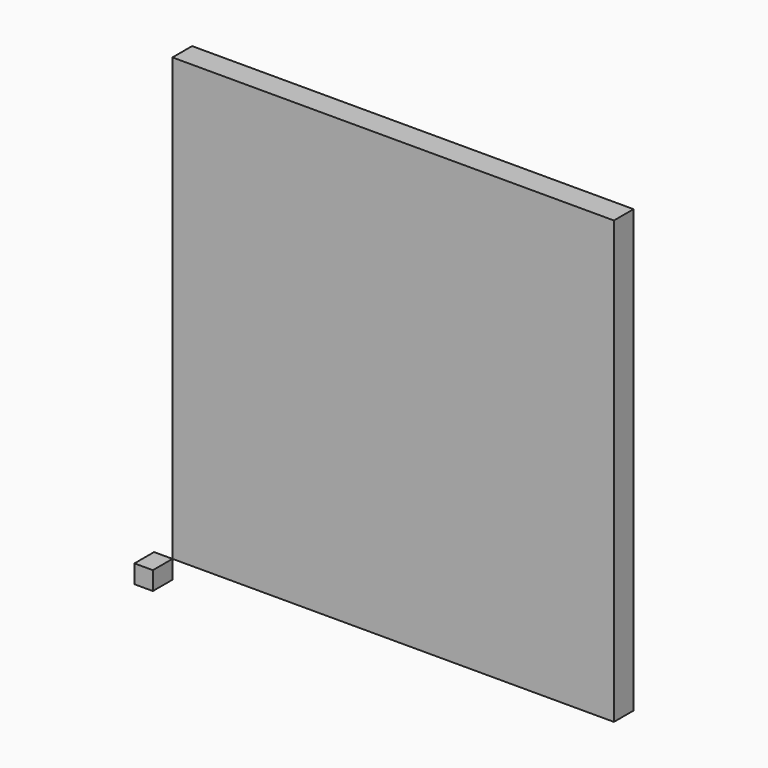
from build123d import *

# Parameters (mm, degrees)
F0_W     = 457.2
F0_H     = 457.2
F1_DEPTH = 25.4
F2_W     = 19.05
F2_H     = 19.05
F3_DEPTH = 25.4


with BuildPart() as f1:
    # F0 (on Front) → F1 (new body)
    with BuildSketch(Plane.XZ):
        with Locations((228.6, 228.6)):
            Rectangle(F0_W, F0_H)
    extrude(amount=F1_DEPTH)


with BuildPart() as f3:
    # F2 (on face) → F3 (new body)
    with BuildSketch(Plane.XZ.offset(25.4)):
        with Locations((-9.525, -9.525)):
            Rectangle(F2_W, F2_H)
    extrude(amount=F3_DEPTH)


solid = Compound([f1.part, f3.part])
